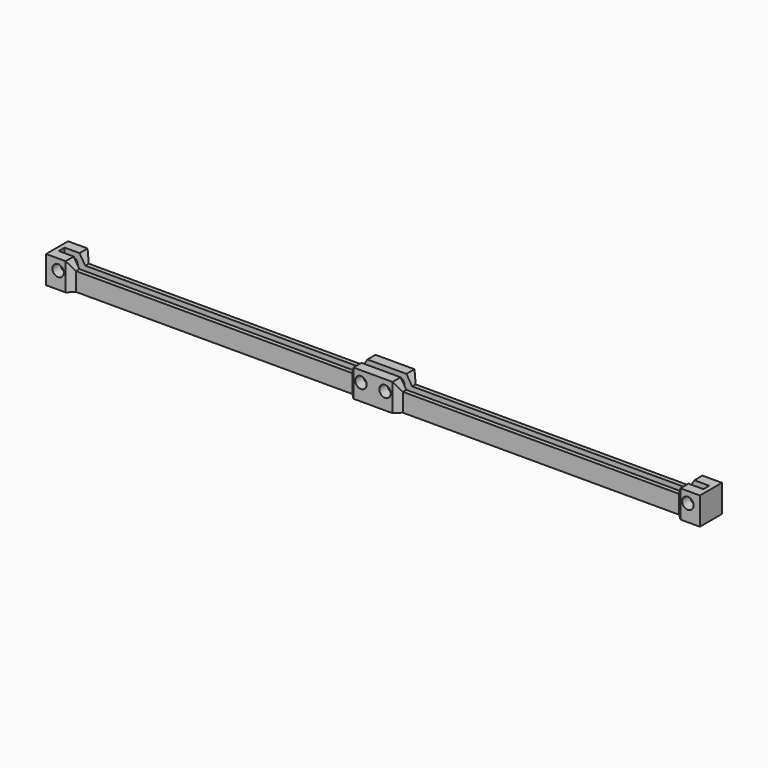
from build123d import *

# Parameters (mm, degrees)
PAD_DEPTH       = 6
SKETCH001_W     = 140.5
SKETCH001_H     = 1.6
POCKET_DEPTH    = 4.5
SKETCH002_R     = 1.25
POCKET001_DEPTH = 6.001


with BuildPart() as part:
    # Sketch → Pad (new body)
    with BuildSketch(Plane.XY):
        Polygon((-71.25, 3), (-71.25, -3), (-67, -3), (-65.75, -1.75), (-5.5, -1.75), (-4.25, -3), (4.25, -3), (5.5, -1.75), (65.75, -1.75), (67, -3), (71.25, -3), (71.25, 3), (67, 3), (65.75, 1.75), (5.5, 1.75), (4.25, 3), (-4.25, 3), (-5.5, 1.75), (-65.75, 1.75), (-67, 3), align=None)
    extrude(amount=PAD_DEPTH)

    # Sketch001 (on Face22 of Pad) → Pocket (cut)
    with BuildSketch(Plane.XY.offset(6)):
        Rectangle(SKETCH001_W, SKETCH001_H)
    extrude(amount=-POCKET_DEPTH, mode=Mode.SUBTRACT)

    # Sketch002 (on Face10 of Pocket) → Pocket001 (cut, through all)
    with BuildSketch(Plane.XZ.offset(3)):
        with Locations((-68.625, 3.65)):
            Circle(SKETCH002_R)
        with Locations((-2.625, 3.65)):
            Circle(SKETCH002_R)
        with Locations((2.625, 3.65)):
            Circle(SKETCH002_R)
        with Locations((68.625, 3.65)):
            Circle(SKETCH002_R)
        Polygon((-67, 6), (-65.75, 4), (-5.5, 4), (-4.25, 6), align=None)
        Polygon((4.25, 6), (5.5, 4), (65.75, 4), (67, 6), align=None)
    extrude(amount=-POCKET001_DEPTH, mode=Mode.SUBTRACT)


solid = part.part
